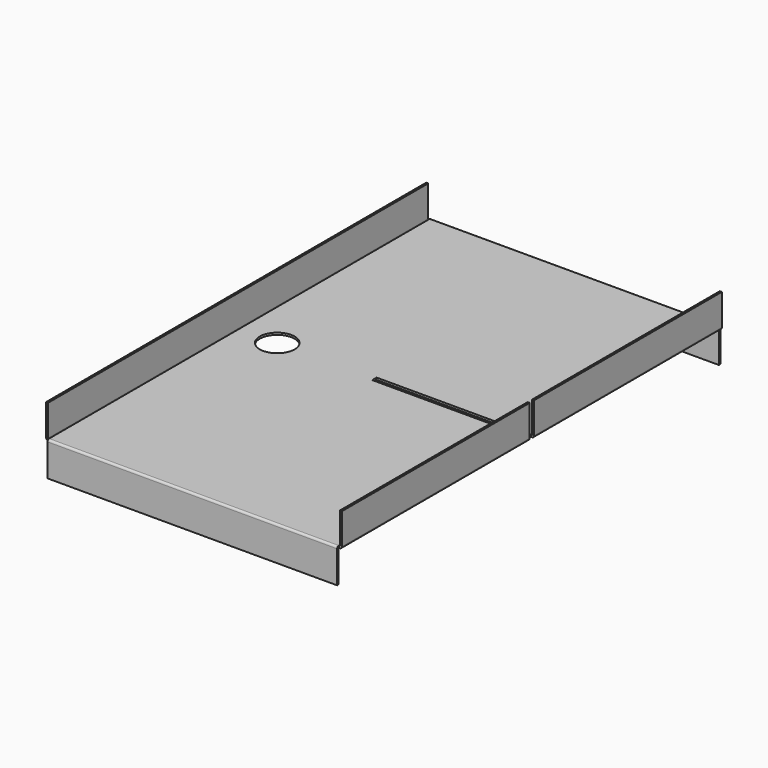
from build123d import *

# Parameters (mm, degrees)
F1_DEPTH      = 211.5
F1_DEPTH_BACK = 70
F3_DEPTH      = 347
F3_DEPTH_BACK = 347
F5_W          = 233.843906
F5_H          = 8
F6_DEPTH      = 80
F7_R          = 25.5
F8_DEPTH      = 12.5


with BuildPart() as f1:
    # F0 (on Right) → F1 (new body, two sides)
    with BuildSketch(Plane.YZ) as f1_sk:
        with BuildLine():
            ThreePointArc((-347, 4.5), (-349.12132, 3.62132), (-350, 1.5))
            Line((-350, 1.5), (-350, -45.5))
            Line((-350, -45.5), (-347, -45.5))
            Line((-347, -45.5), (-347, 0))
            ThreePointArc((-347, 0), (-346.56066, 1.06066), (-345.5, 1.5))
            Line((-345.5, 1.5), (345.5, 1.5))
            ThreePointArc((345.5, 1.5), (346.56066, 1.06066), (347, 0))
            Line((347, 0), (347, -45.5))
            Line((347, -45.5), (350, -45.5))
            Line((350, -45.5), (350, 1.5))
            ThreePointArc((350, 1.5), (349.12132, 3.62132), (347, 4.5))
            Line((347, 4.5), (-347, 4.5))
        make_face()
    extrude(amount=F1_DEPTH)
    extrude(f1_sk.sketch, amount=-F1_DEPTH_BACK)

    # F2 (on Front) → F3 (join, two sides)
    with BuildSketch(Plane.XZ) as f3_sk:
        with BuildLine():
            Line((216, 50), (213, 50))
            Line((213, 50), (213, 4.5))
            ThreePointArc((213, 4.5), (212.56066, 3.43934), (211.5, 3))
            Line((211.5, 3), (211.5, 1.5))
            Line((211.5, 1.5), (213, 1.5))
            ThreePointArc((213, 1.5), (215.12132, 2.37868), (216, 4.5))
            Line((216, 4.5), (216, 50))
        make_face()
    extrude(amount=F3_DEPTH)
    extrude(f3_sk.sketch, amount=-F3_DEPTH_BACK)

    # F4: F1 across plane


with BuildPart() as f1_1:
    add(f1.part)
    add(f1.part.mirror(Plane.YZ))

    # F5 (on Top) → F6 (cut)
    with BuildSketch(Plane.XY):
        with Locations((102.921953, 0)):
            Rectangle(F5_W, F5_H)
    extrude(amount=F6_DEPTH, mode=Mode.SUBTRACT)

    # F7 (on face) → F8 (cut, symmetric)
    with BuildSketch(Plane(origin=(0, 0, 1.5), x_dir=(1, 0, 0), z_dir=(0, 0, -1))):
        with Locations((-156, 0)):
            Circle(F7_R)
    extrude(amount=F8_DEPTH, both=True, mode=Mode.SUBTRACT)


solid = f1_1.part
